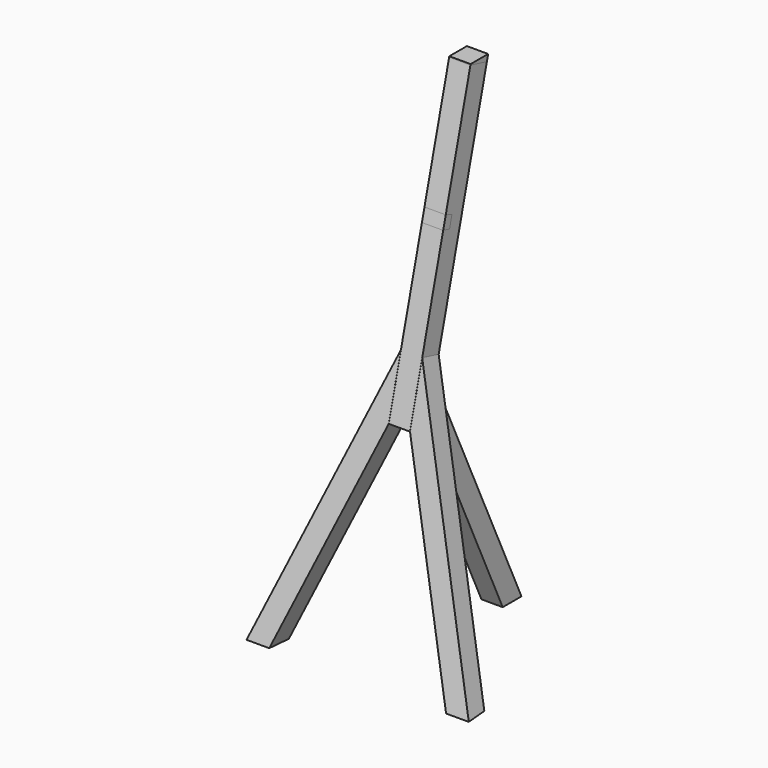
from build123d import *

# Parameters (mm, degrees)
F1_DEPTH = 12.5
F4_DEPTH = 25
F5_W     = 124.7379928827
F5_H     = 31.2326587737
F6_DEPTH = 144
F7_DEPTH = 286
F8_DEPTH = 12.5
F9_DEPTH = 12.5


with BuildPart() as f1:
    # F0 (on Right) → F1 (new body, symmetric)
    with BuildSketch(Plane.YZ):
        Polygon((47.8544318382, 436.4808841203), (38.7541092446, 439.8492224126), (34.9947776088, 425.3131400874), (44.3410967838, 422.8959885766), align=None)
    extrude(amount=F1_DEPTH, both=True)

    # F5 (on Right) → F7 (cut)
    with BuildSketch(Plane.YZ):
        with Locations((-62.3689964414, -15.6163293868)):
            Rectangle(F5_W, F5_H)
    extrude(amount=F7_DEPTH, mode=Mode.SUBTRACT)


with BuildPart() as f1b:
    # F0 (on Right) → F1, piece 2 (new body, symmetric)
    with BuildSketch(Plane.YZ):
        Polygon((100.8225272427, 580), (75, 580), (99.2036727903, 573.7404294508), align=None)
        Polygon((75.2471806221, 580.9557650723), (75, 580), (100.8225272427, 580), (101.0707989335, 580.9557650723), align=None)
    extrude(amount=F1_DEPTH, both=True)


with BuildPart() as f1c:
    # F0 (on Right) → F1, piece 3 (new body, symmetric)
    with BuildSketch(Plane.YZ):
        Polygon((22.1286542179, 275.3176358827), (12.2695358597, 237.1957115644), (122.4351442278, 0), (150, 0), align=None)
    extrude(amount=F1_DEPTH, both=True)


with BuildPart() as f4:
    # F3 (on offset) → F4 (new body)
    with BuildSketch(Plane(origin=(0, -70.2981331847, 18.1805516857), x_dir=(1, 0, 0), z_dir=(0, -0.9681469116, 0.250382822))):
        Polygon((-104, -19.0623514354), (-12.5, 225.9376485646), (-12.5, 297.3935737636), (-35.919994271, 234.6842994862), (-127.419994271, -10.3157005138), (-130.6866006356, -19.0623514354), (-130, -19.0623514354), align=None)
    extrude(amount=-F4_DEPTH)


with BuildPart() as f4b:
    # F3 (on offset) → F4, piece 2 (new body)
    with BuildSketch(Plane(origin=(0, -70.2981331847, 18.1805516857), x_dir=(1, 0, 0), z_dir=(0, -0.9681469116, 0.250382822))):
        Polygon((-12.4, 225.9376485646), (12.4, 225.9376485646), (12.4, 297.3935737636), (12.4, 297.4466979504), (12.5, 297.4466979504), (12.5, 580.9376485646), (-12.5, 580.9376485646), (-12.5, 297.4206805229), (-12.4, 297.4206805229), (-12.4, 297.3935737636), align=None)
    extrude(amount=-F4_DEPTH)


with BuildPart() as f4c:
    # F3 (on offset) → F4, piece 3 (new body)
    with BuildSketch(Plane(origin=(0, -70.2981331847, 18.1805516857), x_dir=(1, 0, 0), z_dir=(0, -0.9681469116, 0.250382822))):
        Polygon((12.5, 297.3935737636), (12.5, 225.9376485646), (104, -19.0623514354), (130.6866006356, -19.0623514354), (127.419994271, -10.3157005138), align=None)
    extrude(amount=-F4_DEPTH)


with BuildPart() as f6_tool:
    # F5 (on Right) → F6 (new body, symmetric)
    with BuildSketch(Plane.YZ):
        with Locations((-62.3689964414, -15.6163293868)):
            Rectangle(F5_W, F5_H)
    extrude(amount=F6_DEPTH, both=True)


with BuildPart() as f4_1:
    add(f4.part)

    # F6: cut by f6_tool
    add(f6_tool.part, mode=Mode.SUBTRACT)


with BuildPart() as f4c_1:
    add(f4c.part)

    # F6: cut by f6_tool
    add(f6_tool.part, mode=Mode.SUBTRACT)


with BuildPart() as f8:
    # F0 (on Right) → F8 (new body, symmetric)
    with BuildSketch(Plane.YZ):
        Polygon((47.8544318382, 436.4808841203), (38.7541092446, 439.8492224126), (34.9947776088, 425.3131400874), (44.3410967838, 422.8959885766), align=None)
    extrude(amount=F8_DEPTH, both=True)


with BuildPart() as f8b:
    # F0 (on Right) → F8, piece 2 (new body, symmetric)
    with BuildSketch(Plane.YZ):
        Polygon((100.8225272427, 580), (75, 580), (99.2036727903, 573.7404294508), align=None)
        Polygon((75.2471806221, 580.9557650723), (75, 580), (100.8225272427, 580), (101.0707989335, 580.9557650723), align=None)
    extrude(amount=F8_DEPTH, both=True)


with BuildPart() as f8c:
    # F0 (on Right) → F8, piece 3 (new body, symmetric)
    with BuildSketch(Plane.YZ):
        Polygon((22.1286542179, 275.3176358827), (12.2695358597, 237.1957115644), (122.4351442278, 0), (150, 0), align=None)
    extrude(amount=F8_DEPTH, both=True)


with BuildPart() as f9:
    # F0 (on Right) → F9 (new body, symmetric)
    with BuildSketch(Plane.YZ):
        Polygon((47.8544318382, 436.4808841203), (38.7541092446, 439.8492224126), (34.9947776088, 425.3131400874), (44.3410967838, 422.8959885766), align=None)
    extrude(amount=F9_DEPTH, both=True)


with BuildPart() as f9b:
    # F0 (on Right) → F9, piece 2 (new body, symmetric)
    with BuildSketch(Plane.YZ):
        Polygon((100.8225272427, 580), (75, 580), (99.2036727903, 573.7404294508), align=None)
        Polygon((75.2471806221, 580.9557650723), (75, 580), (100.8225272427, 580), (101.0707989335, 580.9557650723), align=None)
    extrude(amount=F9_DEPTH, both=True)


with BuildPart() as f9c:
    # F0 (on Right) → F9, piece 3 (new body, symmetric)
    with BuildSketch(Plane.YZ):
        Polygon((22.1286542179, 275.3176358827), (12.2695358597, 237.1957115644), (122.4351442278, 0), (150, 0), align=None)
    extrude(amount=F9_DEPTH, both=True)


solid = Compound([f1.part, f1b.part, f1c.part, f4b.part, f4_1.part, f4c_1.part, f8.part, f8b.part, f8c.part, f9.part, f9b.part, f9c.part])
